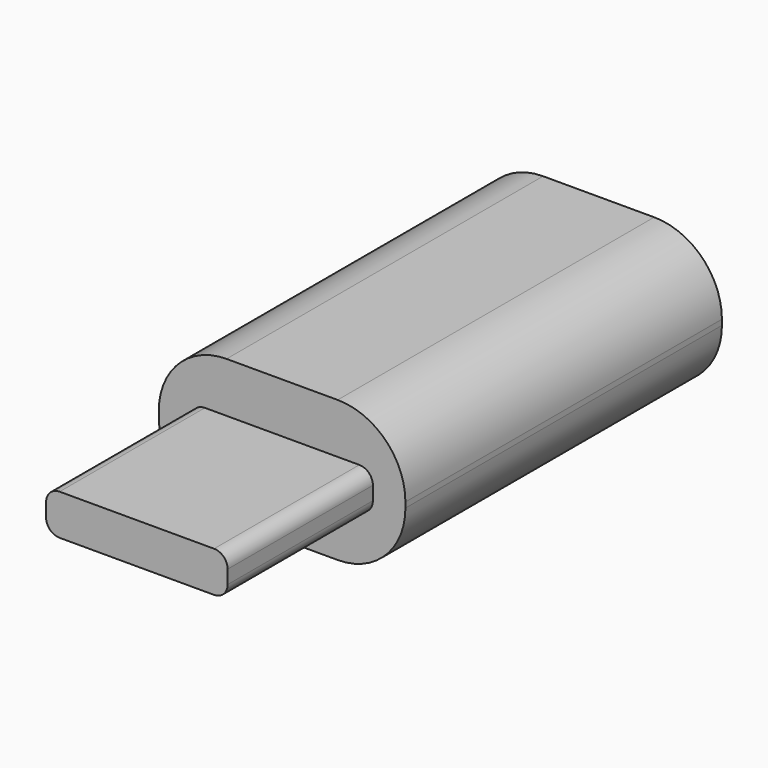
from build123d import *

# Parameters (mm, degrees)
F0_W     = 9.1
F0_H     = 5.2
F1_DEPTH = 14.6
F2_R     = 2.5
F3_W     = 6.7
F3_H     = 1.5
F4_DEPTH = 6.7
F5_R     = 0.5


with BuildPart() as f1:
    # F0 (on Front) → F1 (new body)
    with BuildSketch(Plane.XZ):
        with Locations((6.69256, 11.174007)):
            Rectangle(F0_W, F0_H)
    extrude(amount=F1_DEPTH)

    # F2
    f2_edges = [f1.edges().sort_by_distance(p)[0] for p in [
        (11.24256, -7.3, 8.574007),
        (11.24256, -7.3, 13.774007),
        (2.14256, -7.3, 8.574007),
        (2.14256, -7.3, 13.774007),
    ]]
    fillet(f2_edges, radius=F2_R)

    # F3 (on face) → F4 (join)
    with BuildSketch(Plane.XZ.offset(14.6)):
        with Locations((6.69256, 11.174007)):
            Rectangle(F3_W, F3_H)
    extrude(amount=F4_DEPTH)

    # F5
    f5_edges = [f1.edges().sort_by_distance(p)[0] for p in [
        (3.34256, -17.95, 10.424007),
        (10.04256, -17.95, 10.424007),
        (10.04256, -17.95, 11.924007),
        (3.34256, -17.95, 11.924007),
    ]]
    fillet(f5_edges, radius=F5_R)


solid = f1.part
